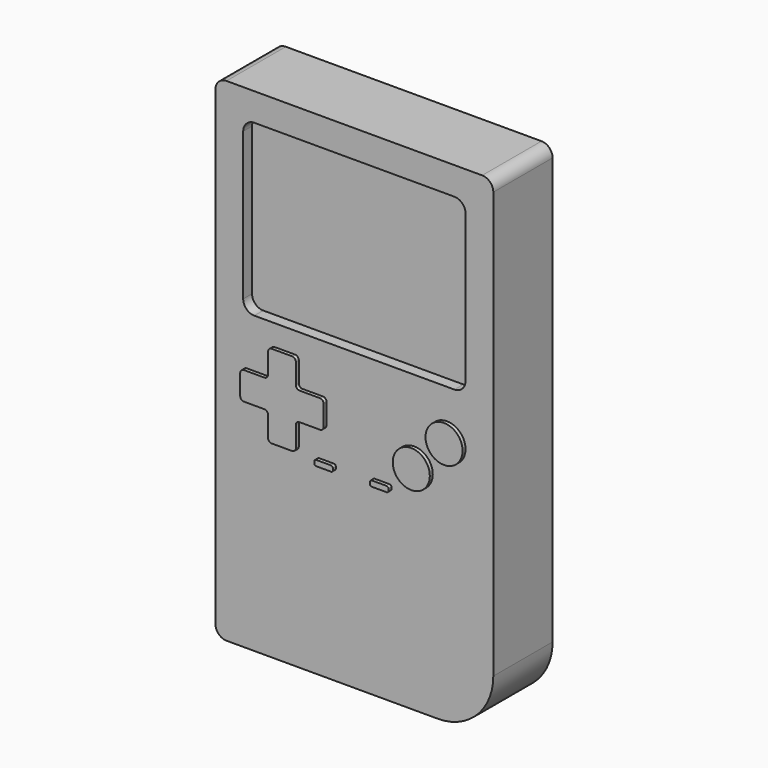
from build123d import *

# Parameters (mm, degrees)
F1_DEPTH = 20
F2_DEPTH = 17
F3_R     = 5
F4_DEPTH = 1


with BuildPart() as f1:
    # F0 (on Front) → F1 (new body)
    with BuildSketch(Plane.XZ):
        with BuildLine():
            ThreePointArc((37.5, 63.5), (36.62132, 65.62132), (34.5, 66.5))
            Line((34.5, 66.5), (-34.5, 66.5))
            ThreePointArc((-34.5, 66.5), (-36.62132, 65.62132), (-37.5, 63.5))
            Line((-37.5, 63.5), (-37.5, -63.5))
            ThreePointArc((-37.5, -63.5), (-36.62132, -65.62132), (-34.5, -66.5))
            Line((-34.5, -66.5), (22.5, -66.5))
            ThreePointArc((22.5, -66.5), (33.106602, -62.106602), (37.5, -51.5))
            Line((37.5, -51.5), (37.5, 63.5))
        make_face()
        with BuildLine():
            ThreePointArc((-30, 56), (-29.12132, 58.12132), (-27, 59))
            Line((-27, 59), (27, 59))
            ThreePointArc((27, 59), (29.12132, 58.12132), (30, 56))
            Line((30, 56), (30, 16.175728))
            ThreePointArc((30, 16.175728), (29.12132, 14.054407), (27, 13.175728))
            Line((27, 13.175728), (-27, 13.175728))
            ThreePointArc((-27, 13.175728), (-29.12132, 14.054407), (-30, 16.175728))
            Line((-30, 16.175728), (-30, 56))
        make_face(mode=Mode.SUBTRACT)
    extrude(amount=F1_DEPTH)

    # F0 (on Front) → F2 (join)
    with BuildSketch(Plane.XZ):
        with BuildLine():
            Line((27, 59), (-27, 59))
            ThreePointArc((-27, 59), (-29.12132, 58.12132), (-30, 56))
            Line((-30, 56), (-30, 16.175728))
            ThreePointArc((-30, 16.175728), (-29.12132, 14.054407), (-27, 13.175728))
            Line((-27, 13.175728), (27, 13.175728))
            ThreePointArc((27, 13.175728), (29.12132, 14.054407), (30, 16.175728))
            Line((30, 16.175728), (30, 56))
            ThreePointArc((30, 56), (29.12132, 58.12132), (27, 59))
        make_face()
    extrude(amount=F2_DEPTH)


with BuildPart() as f4:
    # F3 (on face) → F4 (new body)
    with BuildSketch(Plane.XZ.offset(20)):
        with BuildLine():
            Line((-16, 7.5), (-21.5, 7.5))
            ThreePointArc((-21.5, 7.5), (-22.207107, 7.207107), (-22.5, 6.5))
            Line((-22.5, 6.5), (-22.5, 1))
            ThreePointArc((-22.5, 1), (-22.792893, 0.292893), (-23.5, 0))
            Line((-23.5, 0), (-29, 0))
            ThreePointArc((-29, 0), (-29.707107, -0.292893), (-30, -1))
            Line((-30, -1), (-30, -6.5))
            ThreePointArc((-30, -6.5), (-29.707107, -7.207107), (-29, -7.5))
            Line((-29, -7.5), (-23.5, -7.5))
            ThreePointArc((-23.5, -7.5), (-22.792893, -7.792893), (-22.5, -8.5))
            Line((-22.5, -8.5), (-22.5, -14))
            ThreePointArc((-22.5, -14), (-22.207107, -14.707107), (-21.5, -15))
            Line((-21.5, -15), (-16, -15))
            ThreePointArc((-16, -15), (-15.292893, -14.707107), (-15, -14))
            Line((-15, -14), (-15, -8.5))
            ThreePointArc((-15, -8.5), (-14.707107, -7.792893), (-14, -7.5))
            Line((-14, -7.5), (-8.5, -7.5))
            ThreePointArc((-8.5, -7.5), (-7.792893, -7.207107), (-7.5, -6.5))
            Line((-7.5, -6.5), (-7.5, -1))
            ThreePointArc((-7.5, -1), (-7.792893, -0.292893), (-8.5, 0))
            Line((-8.5, 0), (-14, 0))
            ThreePointArc((-14, 0), (-14.707107, 0.292893), (-15, 1))
            Line((-15, 1), (-15, 6.5))
            ThreePointArc((-15, 6.5), (-15.292893, 7.207107), (-16, 7.5))
        make_face()
        with BuildLine():
            Line((-5.5, -15), (-9.5, -15))
            ThreePointArc((-9.5, -15), (-9.853553, -15.146447), (-10, -15.5))
            Line((-10, -15.5), (-10, -16))
            ThreePointArc((-10, -16), (-9.853553, -16.353553), (-9.5, -16.5))
            Line((-9.5, -16.5), (-5.5, -16.5))
            ThreePointArc((-5.5, -16.5), (-5.146447, -16.353553), (-5, -16))
            Line((-5, -16), (-5, -15.5))
            ThreePointArc((-5, -15.5), (-5.146447, -15.146447), (-5.5, -15))
        make_face()
        with BuildLine():
            Line((9.5, -15), (5.5, -15))
            ThreePointArc((5.5, -15), (5.146447, -15.146447), (5, -15.5))
            Line((5, -15.5), (5, -16))
            ThreePointArc((5, -16), (5.146447, -16.353553), (5.5, -16.5))
            Line((5.5, -16.5), (9.5, -16.5))
            ThreePointArc((9.5, -16.5), (9.853553, -16.353553), (10, -16))
            Line((10, -16), (10, -15.5))
            ThreePointArc((10, -15.5), (9.853553, -15.146447), (9.5, -15))
        make_face()
        with Locations((16.161165, -8.838835)):
            Circle(F3_R)
        with Locations((25, 0)):
            Circle(F3_R)
    extrude(amount=F4_DEPTH)


solid = Compound([f1.part, f4.part])
